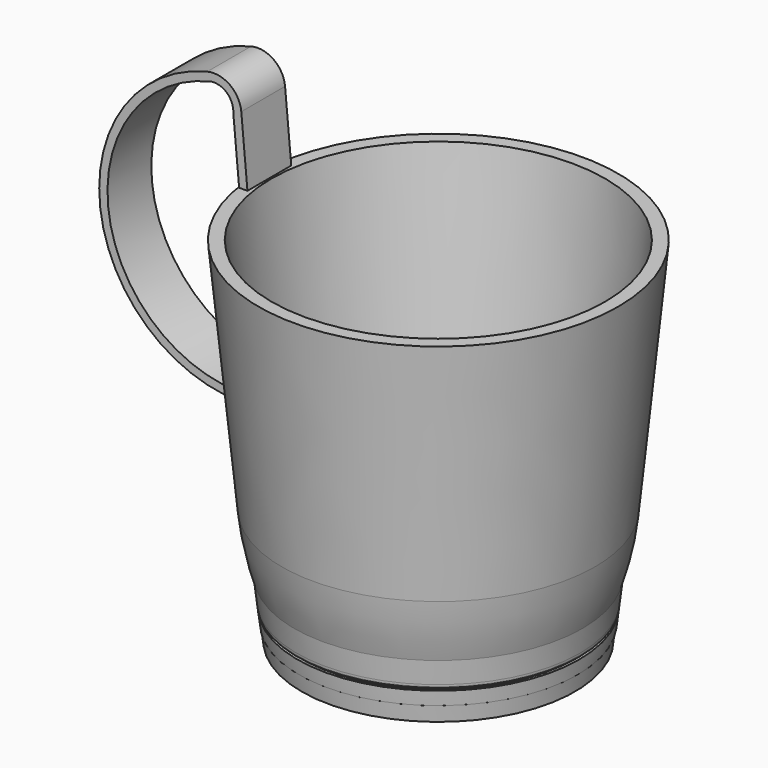
from build123d import *

# Parameters (mm, degrees)
F0_R     = 33.02
F1_DEPTH = 78.232
F1_TAPER = -5.63
F3_R     = 34.036
F3_R_2   = 33.02
F4_DEPTH = 78.232
F4_TAPER = -5.63
F5_T     = -3.048
F9_W     = 2.032
F9_H     = 12.7


with BuildPart() as f1:
    # F0 (on Top) → F1 (new body)
    with BuildSketch(Plane.XY):
        Circle(F0_R)
    extrude(amount=F1_DEPTH, taper=F1_TAPER)

    # F3 (on face) → F4 (join)
    with BuildSketch(Plane(origin=(0, 0, 0), x_dir=(1, 0, 0), z_dir=(0, 0, -1))):
        Circle(F3_R)
        Circle(F3_R_2, mode=Mode.SUBTRACT)
    extrude(amount=-F4_DEPTH, taper=F4_TAPER)

    # F5
    f5_openings = [f1.faces().sort_by_distance(p)[0] for p in [
        (0, 0, 78.232),
    ]]
    offset(amount=F5_T, openings=f5_openings, kind=Kind.INTERSECTION)

    # F6 (on Front) → F7 (revolve, cut)
    with BuildSketch(Plane.XZ):
        with BuildLine():
            Line((32.6848506642, 3.2326551154), (32.3112107695, 0))
            Line((32.3112107695, 0), (44.0889932215, 0))
            Line((44.0889932215, 0), (44.0889932215, 54.3507039547))
            Line((44.0889932215, 54.3507039547), (39.4513271749, 54.3507039547))
            Line((39.4513271749, 54.3507039547), (39.3896299843, 54.2361003943))
            Line((39.3896299843, 54.2361003943), (36.3627001643, 23.5965643078))
            ThreePointArc((36.3627001643, 23.5965643078), (35.2832636057, 16.619062002), (33.4441874208, 9.8022797333))
            Line((33.4441874208, 9.8022797333), (32.8385867178, 4.5627476647))
            Line((32.8385867178, 4.5627476647), (32.7852428872, 4.1012278712))
            Line((32.7852428872, 4.1012278712), (32.7570124771, 3.8569842))
            Line((32.7570124771, 3.8569842), (32.0890299447, 3.8569842))
            Line((32.0890299447, 3.8569842), (32.0060770141, 3.2326551154))
            Line((32.0060770141, 3.2326551154), (32.6848506642, 3.2326551154))
        make_face()
    revolve(axis=Axis((0, 0, 38.8779193163), (0, 0, 1)), mode=Mode.SUBTRACT)

    # F2 (on Front) → F10 (revolve)
    with BuildSketch(Plane.XZ):
        Polygon((0, -3.6346768029), (0, 0), (-32.1533791721, 0), (-31.7057520151, -3.6346768029), align=None)
    revolve(axis=Axis((0, 0, -1.8173384015), (0, 0, 1)))

    # F11: sweep along a path in F8
    with BuildLine(Plane.XZ) as f11_path:
        Line((-38.7114321376, 73.8900886301), (-40.5326529346, 93.9235173966))
        ThreePointArc((-40.5326529346, 93.9235173966), (-43.168569243, 98.5178624573), (-48.3705692501, 99.5154882628))
        ThreePointArc((-48.3705692501, 99.5154882628), (-73.1825968463, 63.6219410958), (-40.5282266438, 34.6793159842))
        Line((-40.5282266438, 34.6793159842), (-35.0613184273, 34.6793159842))
    # F9 (on face) → F11 (sweep)
    with BuildSketch(Plane.XY.offset(78.232)):
        with Locations((-70.6608099122, -0.1456312999)):
            Rectangle(F9_W, F9_H)
    sweep(path=f11_path.line)


solid = f1.part
